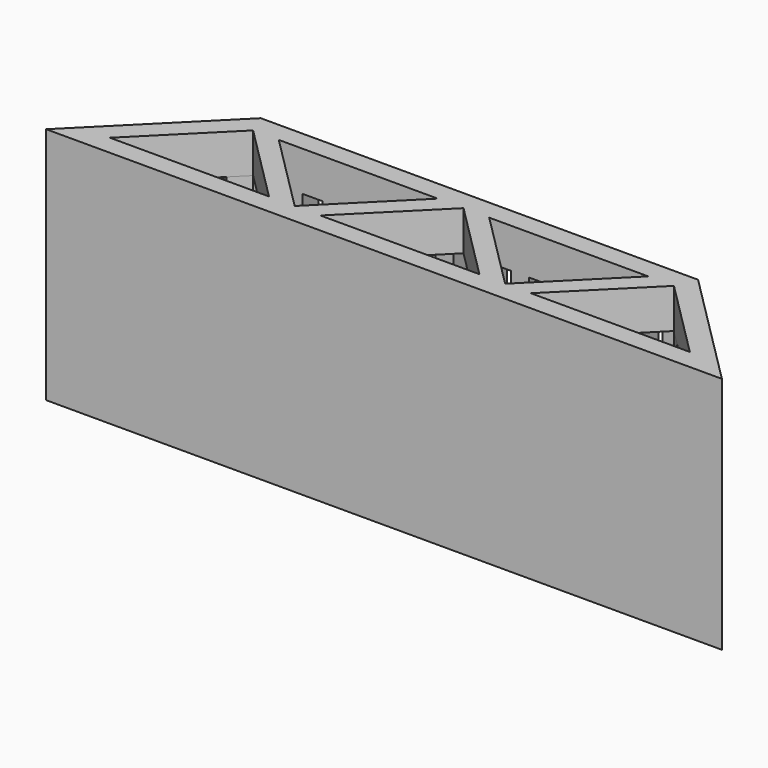
from build123d import *

# Parameters (mm, degrees)
PAD001_DEPTH           = 40
PAD_DEPTH              = 60
POCKET_DEPTH           = 425.514338
SKETCH002_W            = 5
SKETCH002_H            = 40
POCKET001_DEPTH        = 5
LINEARPATTERN_COUNT    = 11
LINEARPATTERN_PITCH    = 9.5
SKETCH003_W            = 5
SKETCH003_H            = 40
POCKET002_DEPTH        = 5
LINEARPATTERN001_COUNT = 3
LINEARPATTERN001_PITCH = 11.5
SKETCH004_W            = 5
SKETCH004_H            = 40
POCKET003_DEPTH        = 5
LINEARPATTERN002_COUNT = 3
LINEARPATTERN002_PITCH = 11.5


with BuildPart() as body001:
    # Sketch005 → Pad001 (new body)
    with BuildSketch(Plane.XY):
        Polygon((-52.93, 10), (52.93, 10), (72.93, -10), (-72.93, -10), align=None)
    extrude(amount=PAD001_DEPTH)


with BuildPart() as body001_1:
    # Body001 placement: moved
    add(body001.part.moved(Location((0, 0, 10))))


with BuildPart() as cut:
    # Sketch → Pad (new body)
    with BuildSketch(Plane.XY):
        Polygon((-55, 15), (55, 15), (85, -15), (-85, -15), align=None)
    extrude(amount=PAD_DEPTH)

    # Sketch001 (on Face6 of Pad) → Pocket (cut, through all)
    with BuildSketch(Plane.XY.offset(60)):
        Polygon((-72.928932, -10), (-52.928932, 10), (-32.928932, -10), align=None)
        Polygon((-46.465976, 10), (-26.465976, -10), (-6.465976, 10), align=None)
        Polygon((-20, -10), (0, 10), (0, -10), align=None)
    pocket = extrude(amount=-POCKET_DEPTH, mode=Mode.SUBTRACT)

    # Mirrored: Pocket across Sketch001 V_Axis
    add(pocket.mirror(Plane(origin=(0, 0, 60), x_dir=(0, 0, 1), z_dir=(1, 0, 0))), mode=Mode.SUBTRACT)

    # Sketch002 (on Face1 of Mirrored) → Pocket001 (cut)
    with BuildSketch(Plane(origin=(0, 15, 0), x_dir=(-1, 0, 0), z_dir=(0, 1, 0))):
        with Locations((-47.5, 30)):
            Rectangle(SKETCH002_W, SKETCH002_H)
    pocket001 = extrude(amount=-POCKET001_DEPTH, mode=Mode.SUBTRACT)

    # LinearPattern: Pocket001 ×11
    with Locations(*[(-i * LINEARPATTERN_PITCH, 0, 0) for i in range(1, LINEARPATTERN_COUNT)]):
        add(pocket001, mode=Mode.SUBTRACT)

    # Sketch003 (on Face5 of LinearPattern) → Pocket002 (cut)
    with BuildSketch(Plane(origin=(35, 35, 0), x_dir=(-0.707107, 0.707107, 0), z_dir=(0.707107, 0.707107, 0))):
        with Locations((-61.140678, 30)):
            Rectangle(SKETCH003_W, SKETCH003_H)
    pocket002 = extrude(amount=-POCKET002_DEPTH, mode=Mode.SUBTRACT)

    # LinearPattern001: Pocket002 ×3
    with Locations(*[Vector(-0.707107, 0.707107, 0) * (i * LINEARPATTERN001_PITCH) for i in range(1, LINEARPATTERN001_COUNT)]):
        add(pocket002, mode=Mode.SUBTRACT)

    # Sketch004 (on Face2 of LinearPattern001) → Pocket003 (cut)
    with BuildSketch(Plane(origin=(-35, 35, 0), x_dir=(-0.707107, -0.707107, 0), z_dir=(-0.707107, 0.707107, 0))):
        with Locations((61.140678, 30)):
            Rectangle(SKETCH004_W, SKETCH004_H)
    pocket003 = extrude(amount=-POCKET003_DEPTH, mode=Mode.SUBTRACT)

    # LinearPattern002: Pocket003 ×3
    with Locations(*[Vector(0.707107, 0.707107, 0) * (i * LINEARPATTERN002_PITCH) for i in range(1, LINEARPATTERN002_COUNT)]):
        add(pocket003, mode=Mode.SUBTRACT)

    # Cut: cut Body001
    add(body001_1.part, mode=Mode.SUBTRACT)


solid = cut.part
